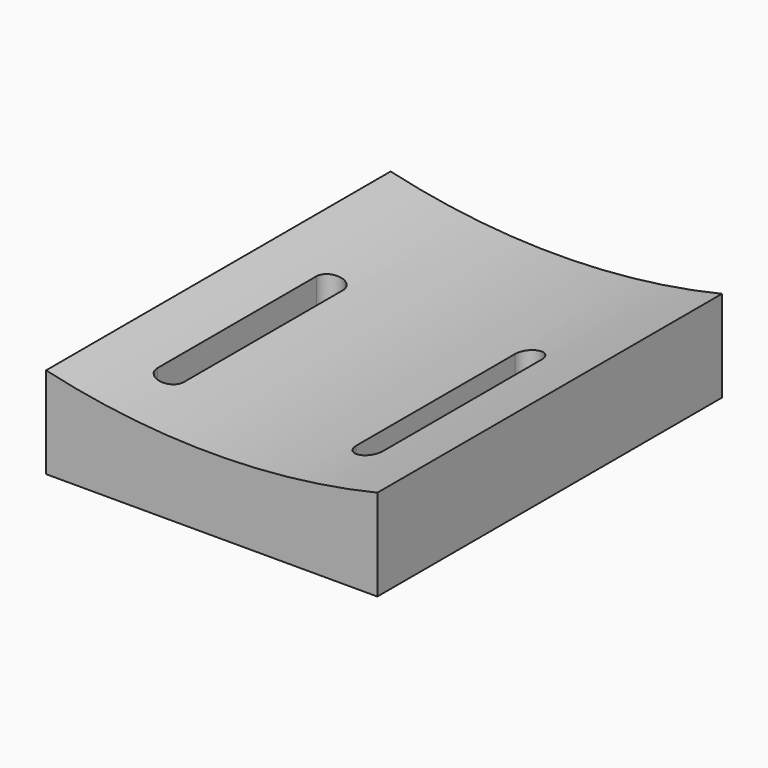
from build123d import *

# Parameters (mm, degrees)
F0_W     = 50
F0_H     = 65
F1_DEPTH = 13.8
F2_R     = 109
F3_DEPTH = 65
F5_DEPTH = 15


with BuildPart() as f1:
    # F0 (on Top) → F1 (new body)
    with BuildSketch(Plane.XY):
        Rectangle(F0_W, F0_H)
    extrude(amount=F1_DEPTH)

    # F2 (on face) → F3 (cut)
    with BuildSketch(Plane(origin=(0, 32.5, 0), x_dir=(-1, 0, 0), z_dir=(0, 1, 0))):
        with Locations((0, 119.894297679)):
            Circle(F2_R)
    extrude(amount=-F3_DEPTH, mode=Mode.SUBTRACT)

    # F4 (on face) → F5 (cut)
    with BuildSketch(Plane(origin=(0, 0, 0), x_dir=(1, 0, 0), z_dir=(0, 0, -1))):
        with BuildLine():
            ThreePointArc((-17, 21.5), (-15, 19.5), (-13, 21.5))
            Line((-13, 21.5), (-17, 21.5))
        make_face()
        with BuildLine():
            Line((-17, 21.5), (-13, 21.5))
            ThreePointArc((-13, 21.5), (-15, 23.5), (-17, 21.5))
        make_face()
        with BuildLine():
            Line((-13, -8.5), (-13, 21.5))
            ThreePointArc((-13, 21.5), (-15, 19.5), (-17, 21.5))
            Line((-17, 21.5), (-17, -8.5))
            ThreePointArc((-17, -8.5), (-15, -6.5), (-13, -8.5))
        make_face()
        with BuildLine():
            ThreePointArc((-17, -8.5), (-15, -10.5), (-13, -8.5))
            Line((-13, -8.5), (-17, -8.5))
        make_face()
        with BuildLine():
            Line((-17, -8.5), (-13, -8.5))
            ThreePointArc((-13, -8.5), (-15, -6.5), (-17, -8.5))
        make_face()
        with BuildLine():
            ThreePointArc((17, 21.5), (15, 23.5), (13, 21.5))
            Line((13, 21.5), (17, 21.5))
        make_face()
        with BuildLine():
            ThreePointArc((17, 21.5), (15, 19.5), (13, 21.5))
            Line((13, 21.5), (13, -8.5))
            ThreePointArc((13, -8.5), (15, -6.5), (17, -8.5))
            Line((17, -8.5), (17, 21.5))
        make_face()
        with BuildLine():
            Line((17, 21.5), (13, 21.5))
            ThreePointArc((13, 21.5), (15, 19.5), (17, 21.5))
        make_face()
        with BuildLine():
            ThreePointArc((17, -8.5), (15, -6.5), (13, -8.5))
            Line((13, -8.5), (17, -8.5))
        make_face()
        with BuildLine():
            Line((17, -8.5), (13, -8.5))
            ThreePointArc((13, -8.5), (15, -10.5), (17, -8.5))
        make_face()
    extrude(amount=-F5_DEPTH, mode=Mode.SUBTRACT)


solid = f1.part
